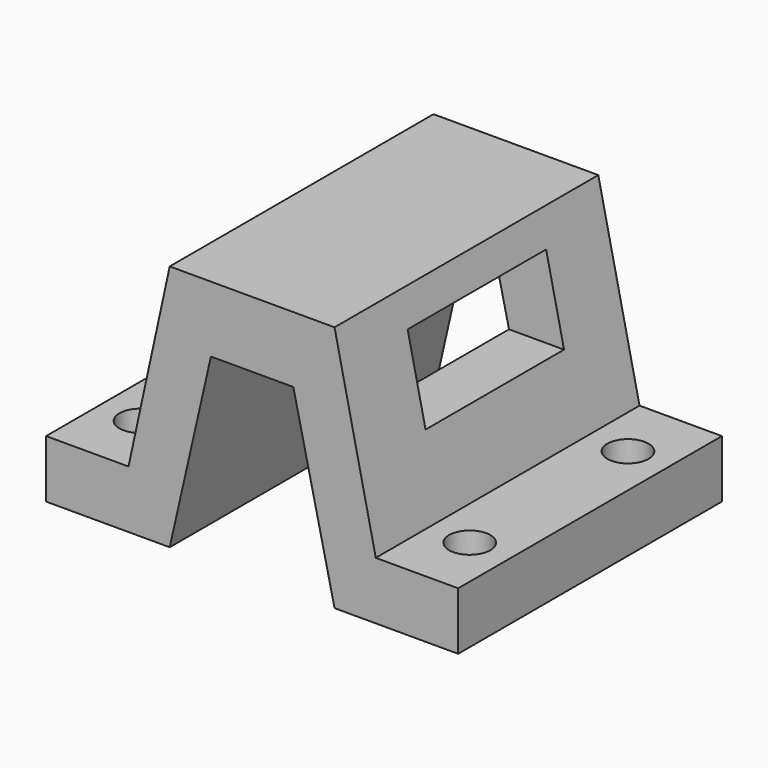
from build123d import *

# Parameters (mm, degrees)
BOX_W        = 31
BOX_H        = 21
BOX_DEPTH    = 10
PAD_DEPTH    = 20
SKETCH002_R  = 2.5
POCKET_DEPTH = 7.001


with BuildPart() as cubo:
    # Box → Box (new body)
    with BuildSketch(Plane(origin=(-15, -10, 1), x_dir=(1, 0, 0), z_dir=(0, 0, 1))):
        with Locations((15.5, 10.5)):
            Rectangle(BOX_W, BOX_H)
    extrude(amount=BOX_DEPTH)


with BuildPart() as pocket:
    # Sketch → Pad (new body, symmetric)
    with BuildSketch(Plane.XZ):
        Polygon((-25, -15), (-10, -15), (-5, 7), (5, 7), (10, -15), (25, -15), (25, -8), (15, -8), (10, 15), (-10, 15), (-15, -8), (-25, -8), align=None)
    extrude(amount=PAD_DEPTH, both=True)

    # Cut: cut Cubo
    add(cubo.part, mode=Mode.SUBTRACT)

    # Sketch002 → Pocket (cut, through all)
    with BuildSketch(Plane.XY.offset(-8)):
        with Locations((-20.002137, 12)):
            Circle(SKETCH002_R)
        with Locations((-20.002137, -12)):
            Circle(SKETCH002_R)
        with Locations((19.997863, 12)):
            Circle(SKETCH002_R)
        with Locations((19.997863, -12)):
            Circle(SKETCH002_R)
    extrude(amount=-POCKET_DEPTH, mode=Mode.SUBTRACT)


solid = pocket.part
